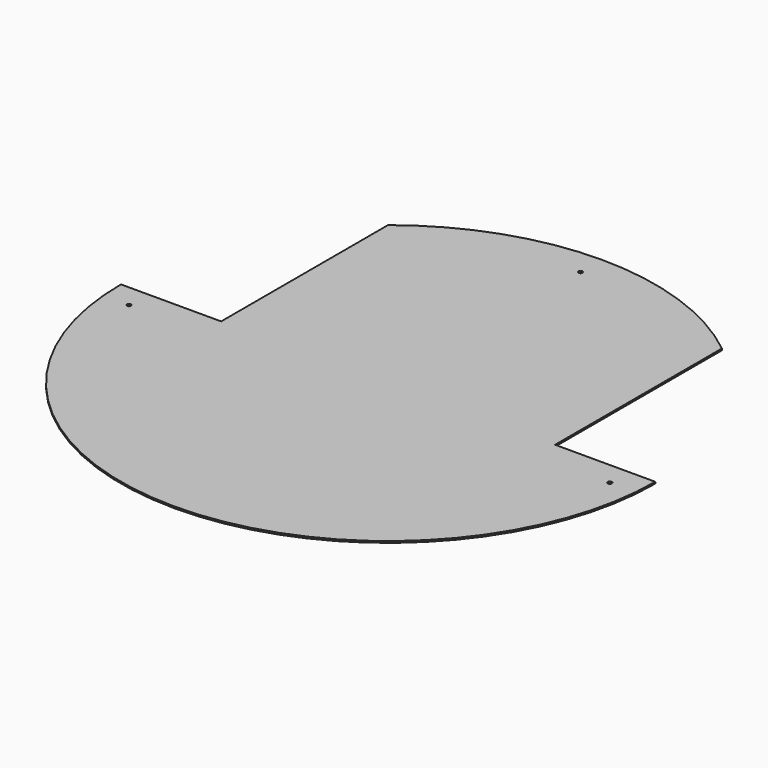
from build123d import *

# Parameters (mm, degrees)
BOX_W             = 30
BOX_H             = 70
BOX_DEPTH         = 0.5
BOX001_W          = 30
BOX001_H          = 70
BOX001_DEPTH      = 0.5
CYLINDER004_R     = 0.62
CYLINDER004_DEPTH = 0.5
CYLINDER003_R     = 0.62
CYLINDER003_DEPTH = 0.5
CYLINDER001_R     = 0.62
CYLINDER001_DEPTH = 0.5
CYLINDER_R        = 80
CYLINDER_DEPTH    = 0.5


with BuildPart() as cubo:
    # Box → Box (new body)
    with BuildSketch(Plane(origin=(-80, 0, 0), x_dir=(1, 0, 0), z_dir=(0, 0, 1))):
        with Locations((15, 35)):
            Rectangle(BOX_W, BOX_H)
    extrude(amount=BOX_DEPTH)


with BuildPart() as cubo001:
    # Box001 → Box001 (new body)
    with BuildSketch(Plane(origin=(50, 0, 0), x_dir=(1, 0, 0), z_dir=(0, 0, 1))):
        with Locations((15, 35)):
            Rectangle(BOX001_W, BOX001_H)
    extrude(amount=BOX001_DEPTH)


with BuildPart() as obj1:
    # Cylinder004 → Cylinder004 (new body)
    with BuildSketch(Plane(origin=(72, -7, 0), x_dir=(1, 0, 0), z_dir=(0, 0, 1))):
        Circle(CYLINDER004_R)
    extrude(amount=CYLINDER004_DEPTH)


with BuildPart() as obj2:
    # Cylinder003 → Cylinder003 (new body)
    with BuildSketch(Plane(origin=(-72, -7, 0), x_dir=(1, 0, 0), z_dir=(0, 0, 1))):
        Circle(CYLINDER003_R)
    extrude(amount=CYLINDER003_DEPTH)


with BuildPart() as obj3:
    # Cylinder001 → Cylinder001 (new body)
    with BuildSketch(Plane(origin=(0, 72, 0), x_dir=(1, 0, 0), z_dir=(0, 0, 1))):
        Circle(CYLINDER001_R)
    extrude(amount=CYLINDER001_DEPTH)


with BuildPart() as cut004:
    # Cylinder → Cylinder (new body)
    with BuildSketch(Plane.XY):
        Circle(CYLINDER_R)
    extrude(amount=CYLINDER_DEPTH)

    # Cut: cut obj3
    add(obj3.part, mode=Mode.SUBTRACT)

    # Cut001: cut obj2
    add(obj2.part, mode=Mode.SUBTRACT)

    # Cut002: cut obj1
    add(obj1.part, mode=Mode.SUBTRACT)

    # Cut003: cut Cubo001
    add(cubo001.part, mode=Mode.SUBTRACT)

    # Cut004: cut Cubo
    add(cubo.part, mode=Mode.SUBTRACT)


solid = cut004.part
